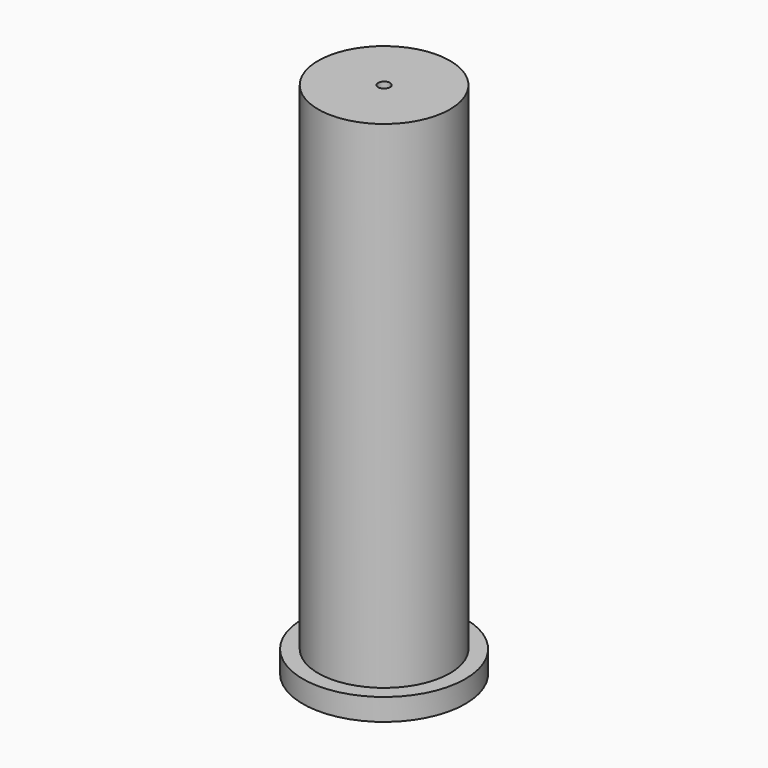
from build123d import *

# Parameters (mm, degrees)
F0_R     = 23.495
F0_R_2   = 19.05
F1_DEPTH = 6.35
F2_DEPTH = 149.86
F4_D     = 3.4544
F4_DEPTH = 12.7
F4_TIP   = 1.0378064612
F7_R     = 11.90625
F8_DEPTH = 0.381


with BuildPart() as f1:
    # F0 (on Top) → F1 (new body)
    with BuildSketch(Plane.XY):
        Circle(F0_R)
        Circle(F0_R_2, mode=Mode.SUBTRACT)
    extrude(amount=F1_DEPTH)

    # F0 (on Top) → F2 (join)
    with BuildSketch(Plane.XY):
        Circle(F0_R_2)
    extrude(amount=F2_DEPTH)

    # F4
    with Locations(Plane.XY.offset(149.86)):
        with Locations((0, 0)):
            Hole(F4_D / 2, depth=F4_DEPTH)
            with Locations((0, 0, -(F4_DEPTH + F4_TIP / 2))):  # 118° drill point
                Cone(0, F4_D / 2, F4_TIP, mode=Mode.SUBTRACT)


with BuildPart() as f5_1:
    # F5: copy of F1
    add(f1.part)


with BuildPart() as f1_1:
    add(f1.part)

    # F7 (on face) → F8 (cut)
    with BuildSketch(Plane(origin=(0, 0, 0), x_dir=(1, 0, 0), z_dir=(0, 0, -1))):
        Circle(F7_R)
    extrude(amount=-F8_DEPTH, mode=Mode.SUBTRACT)


solid = f1_1.part
